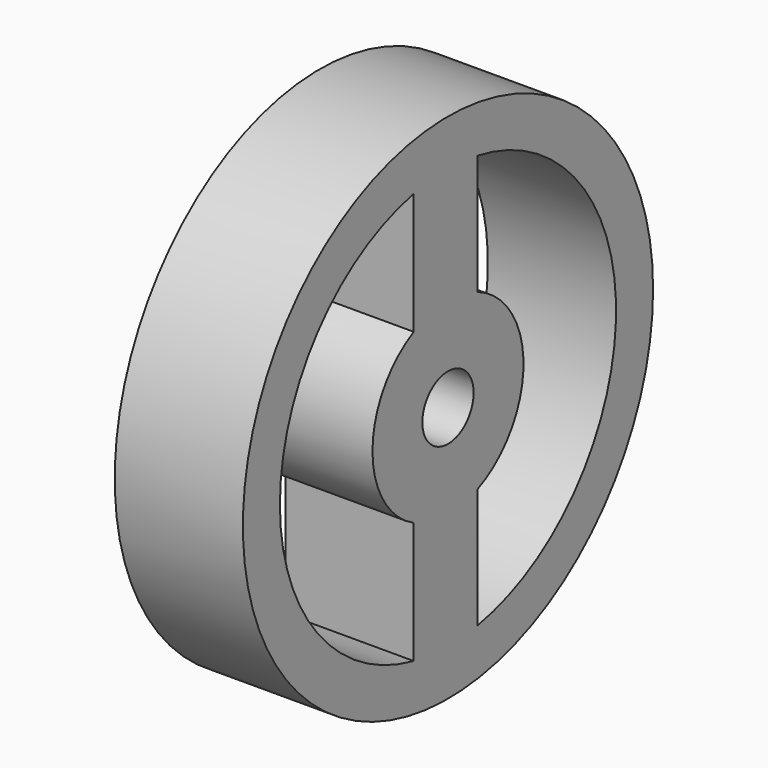
from build123d import *

# Parameters (mm, degrees)
F0_R     = 25.4
F0_R_2   = 3.175
F1_DEPTH = 12.7


with BuildPart() as f1:
    # F0 (on Right) → F1 (new body)
    with BuildSketch(Plane.YZ):
        Circle(F0_R)
        with BuildLine():
            ThreePointArc((-4.24184, -20.380537), (-20.817288, 0), (-4.24184, 20.380537))
            Line((-4.24184, 20.380537), (-4.24184, 8.332751))
            ThreePointArc((-4.24184, 8.332751), (-9.350291, 0), (-4.24184, -8.332751))
            Line((-4.24184, -8.332751), (-4.24184, -20.380537))
        make_face(mode=Mode.SUBTRACT)
        Circle(F0_R_2, mode=Mode.SUBTRACT)
        with BuildLine():
            ThreePointArc((3.643718, -8.611112), (9.350291, 0), (3.643718, 8.611112))
            Line((3.643718, 8.611112), (3.643718, 20.495921))
            ThreePointArc((3.643718, 20.495921), (20.817288, 0), (3.643718, -20.495921))
            Line((3.643718, -20.495921), (3.643718, -8.611112))
        make_face(mode=Mode.SUBTRACT)
    extrude(amount=F1_DEPTH)


solid = f1.part
